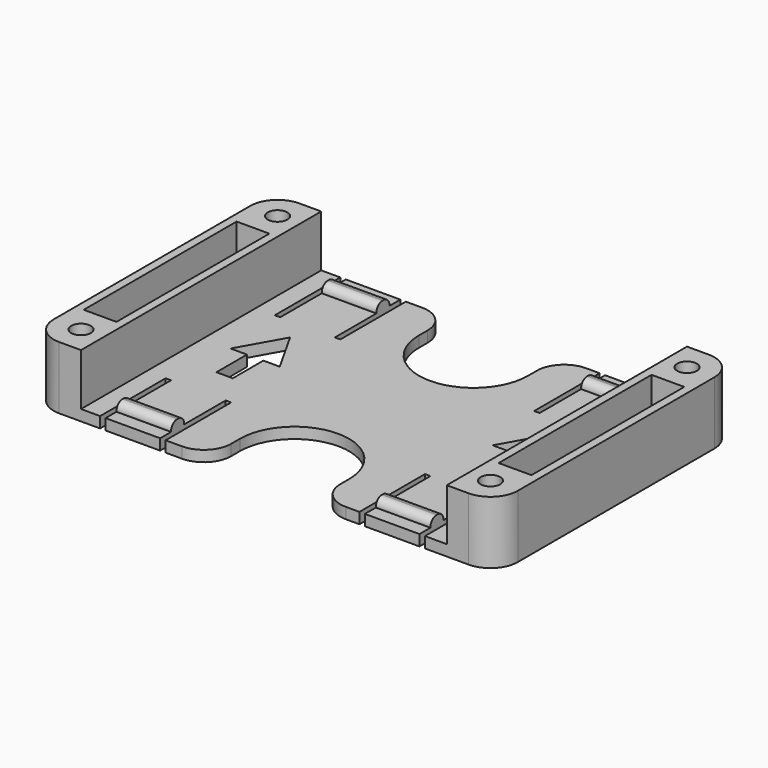
from build123d import *

# Parameters (mm, degrees)
PAD_DEPTH       = 11.5
SKETCH001_W     = 67
SKETCH001_H     = 65
POCKET_DEPTH    = 9.5
SKETCH002_R     = 3
POCKET001_DEPTH = 3
SKETCH003_W     = 6
SKETCH003_H     = 35
POCKET002_DEPTH = 9.5
SKETCH004_R     = 1.8
POCKET003_DEPTH = 8.3
SKETCH006_W     = 1
SKETCH006_H     = 15
POCKET004_DEPTH = 5
SKETCH007_W     = 1
SKETCH007_H     = 15
POCKET005_DEPTH = 5
SKETCH008_W     = 10
SKETCH008_H     = 3
PAD001_DEPTH    = 1.5
FILLET_R        = 1.4
POCKET006_DEPTH = 5


with BuildPart() as part:
    # Sketch → Pad (new body)
    with BuildSketch(Plane.XY):
        with BuildLine():
            ThreePointArc((0, 5), (1.464466, 1.464466), (5, 0))
            Line((5, 0), (27.5, 0))
            ThreePointArc((27.5, 0), (31.035534, 1.464466), (32.5, 5))
            Line((32.5, 5), (32.5, 7))
            ThreePointArc((52.5, 7), (42.5, 17), (32.5, 7))
            Line((52.5, 7), (52.5, 5))
            ThreePointArc((52.5, 5), (53.964466, 1.464466), (57.5, 0))
            Line((57.5, 0), (80, 0))
            ThreePointArc((80, 0), (83.535534, 1.464466), (85, 5))
            Line((85, 50), (85, 5))
            ThreePointArc((85, 50), (83.535534, 53.535534), (80, 55))
            Line((57.5, 55), (80, 55))
            ThreePointArc((57.5, 55), (53.964466, 53.535534), (52.5, 50))
            Line((52.5, 50), (52.5, 48))
            ThreePointArc((32.5, 48), (42.5, 38), (52.5, 48))
            Line((32.5, 50), (32.5, 48))
            ThreePointArc((32.5, 50), (31.035534, 53.535534), (27.5, 55))
            Line((5, 55), (27.5, 55))
            ThreePointArc((5, 55), (1.464466, 53.535534), (0, 50))
            Line((0, 5), (0, 50))
        make_face()
    extrude(amount=PAD_DEPTH)

    # Sketch001 → Pocket (cut)
    with BuildSketch(Plane.XY.offset(11.5)):
        with Locations((42.5, 27.5)):
            Rectangle(SKETCH001_W, SKETCH001_H)
    extrude(amount=-POCKET_DEPTH, mode=Mode.SUBTRACT)

    # Sketch002 → Pocket001 (cut)
    with BuildSketch(Plane(origin=(0, 0, 0), x_dir=(1, 0, 0), z_dir=(0, 0, -1))):
        with Locations((80, -50)):
            Circle(SKETCH002_R)
        with Locations((5, -5)):
            Circle(SKETCH002_R)
        Polygon((2, -51.732051), (2, -48.267949), (5, -46.535898), (8, -48.267949), (8, -51.732051), (5, -53.464102), align=None)
        Polygon((77, -3.267949), (77, -6.732051), (80, -8.464102), (83, -6.732051), (83, -3.267949), (80, -1.535898), align=None)
    extrude(amount=-POCKET001_DEPTH, mode=Mode.SUBTRACT)

    # Sketch003 → Pocket002 (cut)
    with BuildSketch(Plane.XY.offset(11.5)):
        with Locations((4.5, 27.5)):
            Rectangle(SKETCH003_W, SKETCH003_H)
        with Locations((80.5, 27.5)):
            Rectangle(SKETCH003_W, SKETCH003_H)
    extrude(amount=-POCKET002_DEPTH, mode=Mode.SUBTRACT)

    # Sketch004 → Pocket003 (cut)
    with BuildSketch(Plane.XY.offset(11.5)):
        with Locations((5, 50)):
            Circle(SKETCH004_R)
        with Locations((80, 50)):
            Circle(SKETCH004_R)
        with Locations((80, 5)):
            Circle(SKETCH004_R)
        with Locations((5, 5)):
            Circle(SKETCH004_R)
    extrude(amount=-POCKET003_DEPTH, mode=Mode.SUBTRACT)

    # Sketch006 → Pocket004 (cut)
    with BuildSketch(Plane.XY.offset(2)):
        with Locations((71.5, 47.5)):
            Rectangle(SKETCH006_W, SKETCH006_H)
        with Locations((60.5, 47.5)):
            Rectangle(SKETCH006_W, SKETCH006_H)
        with Locations((24, 47.5)):
            Rectangle(SKETCH006_W, SKETCH006_H)
        with Locations((13, 47.5)):
            Rectangle(SKETCH006_W, SKETCH006_H)
    extrude(amount=-POCKET004_DEPTH, mode=Mode.SUBTRACT)

    # Sketch007 → Pocket005 (cut)
    with BuildSketch(Plane.XY.offset(2)):
        with Locations((71.5, 7.5)):
            Rectangle(SKETCH007_W, SKETCH007_H)
        with Locations((60.5, 7.5)):
            Rectangle(SKETCH007_W, SKETCH007_H)
        with Locations((24, 7.5)):
            Rectangle(SKETCH007_W, SKETCH007_H)
        with Locations((13, 7.5)):
            Rectangle(SKETCH007_W, SKETCH007_H)
    extrude(amount=-POCKET005_DEPTH, mode=Mode.SUBTRACT)

    # Sketch008 → Pad001 (new body)
    with BuildSketch(Plane.XY.offset(2)):
        with Locations((18.5, 4)):
            Rectangle(SKETCH008_W, SKETCH008_H)
        with Locations((66, 4)):
            Rectangle(SKETCH008_W, SKETCH008_H)
        with Locations((18.5, 51)):
            Rectangle(SKETCH008_W, SKETCH008_H)
        with Locations((66, 51)):
            Rectangle(SKETCH008_W, SKETCH008_H)
    extrude(amount=PAD001_DEPTH)

    # Fillet
    fillet_edges = [part.edges().sort_by_distance(p)[0] for p in [
        (18.5, 49.5, 3.5),
        (18.5, 52.5, 3.5),
        (66, 52.5, 3.5),
        (66, 49.5, 3.5),
        (66, 5.5, 3.5),
        (66, 2.5, 3.5),
        (18.5, 2.5, 3.5),
        (18.5, 5.5, 3.5),
    ]]
    fillet(fillet_edges, radius=FILLET_R)

    # Sketch005 → Pocket006 (cut)
    with BuildSketch(Plane.XY.offset(2)):
        Polygon((17, 28), (14, 28), (18.5, 36), (23, 28), (20, 28), (20, 21), (17, 21), align=None)
        Polygon((65, 28), (62, 28), (66.5, 36), (71, 28), (68, 28), (68, 21), (65, 21), align=None)
    extrude(amount=-POCKET006_DEPTH, mode=Mode.SUBTRACT)


solid = part.part
